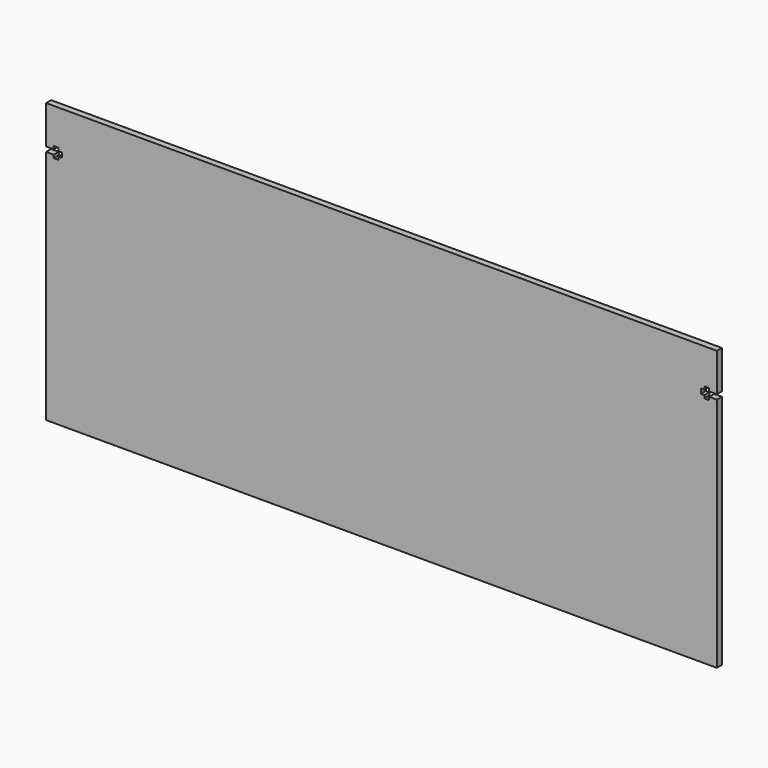
from build123d import *

# Parameters (mm, degrees)
F0_W     = 419.1
F0_H     = 174.3964
F1_DEPTH = 3.937
F2_W     = 3.175
F2_H     = 2.9464
F3_DEPTH = 3.937


with BuildPart() as f1:
    # F0 (on Front) → F1 (new body)
    with BuildSketch(Plane.XZ):
        Rectangle(F0_W, F0_H)
    extrude(amount=F1_DEPTH)

    # F2 (on face) → F3 (cut, through all)
    with BuildSketch(Plane.XZ.offset(3.937)):
        Polygon((-206.375, 63.2714), (-206.375, 60.325), (-204.7748, 60.325), (-204.7748, 58.46445), (-201.742675, 58.46445), (-201.742675, 60.325), (-199.517, 60.325), (-199.517, 61.7982), (-199.517, 63.2714), (-201.742675, 63.2714), (-201.742675, 65.13195), (-204.7748, 65.13195), (-204.7748, 63.2714), align=None)
        with Locations((-207.9625, 61.7982)):
            Rectangle(F2_W, F2_H)
        Polygon((201.742675, 58.46445), (204.7748, 58.46445), (204.7748, 60.325), (206.375, 60.325), (206.375, 63.2714), (204.7748, 63.2714), (204.7748, 65.13195), (201.742675, 65.13195), (201.742675, 63.2714), (199.517, 63.2714), (199.517, 61.7982), (199.517, 60.325), (201.742675, 60.325), align=None)
        with Locations((207.9625, 61.7982)):
            Rectangle(F2_W, F2_H)
    extrude(amount=-F3_DEPTH, mode=Mode.SUBTRACT)


solid = f1.part
